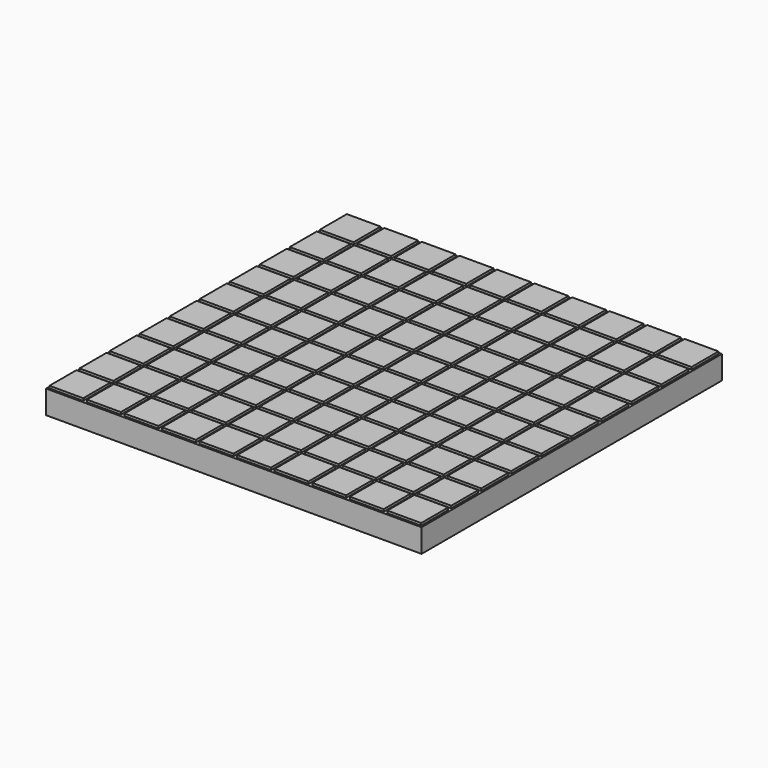
from build123d import *

# Parameters (mm, degrees)
F0_W     = 4000
F0_H     = 4000
F1_DEPTH = 250
F2_W     = 360
F2_H     = 360
F3_DEPTH = 25


with BuildPart() as f1:
    # F0 (on Top) → F1 (new body)
    with BuildSketch(Plane.XY):
        Rectangle(F0_W, F0_H)
    extrude(amount=F1_DEPTH)

    # F2 (on face) → F3 (join)
    with BuildSketch(Plane.XY.offset(250)):
        with Locations((-1800, 1800)):
            Rectangle(F2_W, F2_H)
        with Locations((-1400, 1800)):
            Rectangle(F2_W, F2_H)
        with Locations((-1000, 1800)):
            Rectangle(F2_W, F2_H)
        with Locations((-600, 1800)):
            Rectangle(F2_W, F2_H)
        with Locations((-200, 1800)):
            Rectangle(F2_W, F2_H)
        with Locations((200, 1800)):
            Rectangle(F2_W, F2_H)
        with Locations((600, 1800)):
            Rectangle(F2_W, F2_H)
        with Locations((1000, 1800)):
            Rectangle(F2_W, F2_H)
        with Locations((1400, 1800)):
            Rectangle(F2_W, F2_H)
        with Locations((1800, 1800)):
            Rectangle(F2_W, F2_H)
        with Locations((1800, 1400)):
            Rectangle(F2_W, F2_H)
        with Locations((1000, 1400)):
            Rectangle(F2_W, F2_H)
        with Locations((600, 1400)):
            Rectangle(F2_W, F2_H)
        with Locations((200, 1400)):
            Rectangle(F2_W, F2_H)
        with Locations((-200, 1400)):
            Rectangle(F2_W, F2_H)
        with Locations((-600, 1400)):
            Rectangle(F2_W, F2_H)
        with Locations((-1000, 1400)):
            Rectangle(F2_W, F2_H)
        with Locations((-1400, 1400)):
            Rectangle(F2_W, F2_H)
        with Locations((-1800, 1400)):
            Rectangle(F2_W, F2_H)
        with Locations((-1800, 1000)):
            Rectangle(F2_W, F2_H)
        with Locations((-1400, 1000)):
            Rectangle(F2_W, F2_H)
        with Locations((-1000, 1000)):
            Rectangle(F2_W, F2_H)
        with Locations((-1400, 1400)):
            Rectangle(F2_W, F2_H)
        with Locations((-600, 1000)):
            Rectangle(F2_W, F2_H)
        with Locations((-200, 1000)):
            Rectangle(F2_W, F2_H)
        with Locations((200, 1000)):
            Rectangle(F2_W, F2_H)
        with Locations((600, 1000)):
            Rectangle(F2_W, F2_H)
        with Locations((1000, 1000)):
            Rectangle(F2_W, F2_H)
        with Locations((1400, 1400)):
            Rectangle(F2_W, F2_H)
        with Locations((1400, 1000)):
            Rectangle(F2_W, F2_H)
        with Locations((1800, 1000)):
            Rectangle(F2_W, F2_H)
        with Locations((1800, 600)):
            Rectangle(F2_W, F2_H)
        with Locations((1400, 600)):
            Rectangle(F2_W, F2_H)
        with Locations((1000, 600)):
            Rectangle(F2_W, F2_H)
        with Locations((600, 600)):
            Rectangle(F2_W, F2_H)
        with Locations((200, 600)):
            Rectangle(F2_W, F2_H)
        with Locations((-200, 600)):
            Rectangle(F2_W, F2_H)
        with Locations((-600, 600)):
            Rectangle(F2_W, F2_H)
        with Locations((-1000, 600)):
            Rectangle(F2_W, F2_H)
        with Locations((-1400, 600)):
            Rectangle(F2_W, F2_H)
        with Locations((-1800, 600)):
            Rectangle(F2_W, F2_H)
        with Locations((-1800, 200)):
            Rectangle(F2_W, F2_H)
        with Locations((-1400, 200)):
            Rectangle(F2_W, F2_H)
        with Locations((-1000, 200)):
            Rectangle(F2_W, F2_H)
        with Locations((-600, 200)):
            Rectangle(F2_W, F2_H)
        with Locations((-200, 200)):
            Rectangle(F2_W, F2_H)
        with Locations((200, 200)):
            Rectangle(F2_W, F2_H)
        with Locations((600, 200)):
            Rectangle(F2_W, F2_H)
        with Locations((1000, 200)):
            Rectangle(F2_W, F2_H)
        with Locations((1400, 200)):
            Rectangle(F2_W, F2_H)
        with Locations((1800, 200)):
            Rectangle(F2_W, F2_H)
        with Locations((-200, 600)):
            Rectangle(F2_W, F2_H)
        with Locations((-1800, -200)):
            Rectangle(F2_W, F2_H)
        with Locations((-1800, 200)):
            Rectangle(F2_W, F2_H)
        with Locations((-1400, -200)):
            Rectangle(F2_W, F2_H)
        with Locations((-1000, -200)):
            Rectangle(F2_W, F2_H)
        with Locations((-600, -200)):
            Rectangle(F2_W, F2_H)
        with Locations((-200, -200)):
            Rectangle(F2_W, F2_H)
        with Locations((200, -200)):
            Rectangle(F2_W, F2_H)
        with Locations((600, -200)):
            Rectangle(F2_W, F2_H)
        with Locations((1000, -200)):
            Rectangle(F2_W, F2_H)
        with Locations((1400, -200)):
            Rectangle(F2_W, F2_H)
        with Locations((1800, -200)):
            Rectangle(F2_W, F2_H)
        with Locations((1800, -600)):
            Rectangle(F2_W, F2_H)
        with Locations((1400, -600)):
            Rectangle(F2_W, F2_H)
        with Locations((1000, -600)):
            Rectangle(F2_W, F2_H)
        with Locations((600, -600)):
            Rectangle(F2_W, F2_H)
        with Locations((200, -600)):
            Rectangle(F2_W, F2_H)
        with Locations((-1800, -600)):
            Rectangle(F2_W, F2_H)
        with Locations((-1400, -600)):
            Rectangle(F2_W, F2_H)
        with Locations((-1000, -600)):
            Rectangle(F2_W, F2_H)
        with Locations((-600, -600)):
            Rectangle(F2_W, F2_H)
        with Locations((-200, -600)):
            Rectangle(F2_W, F2_H)
        with Locations((-1800, -1000)):
            Rectangle(F2_W, F2_H)
        with Locations((-1400, -1000)):
            Rectangle(F2_W, F2_H)
        with Locations((-1000, -1000)):
            Rectangle(F2_W, F2_H)
        with Locations((-600, -1000)):
            Rectangle(F2_W, F2_H)
        with Locations((-200, -1000)):
            Rectangle(F2_W, F2_H)
        with Locations((200, -1000)):
            Rectangle(F2_W, F2_H)
        with Locations((600, -1000)):
            Rectangle(F2_W, F2_H)
        with Locations((1000, -1000)):
            Rectangle(F2_W, F2_H)
        with Locations((1400, -1000)):
            Rectangle(F2_W, F2_H)
        with Locations((1800, -1000)):
            Rectangle(F2_W, F2_H)
        with Locations((1800, -1400)):
            Rectangle(F2_W, F2_H)
        with Locations((1400, -1400)):
            Rectangle(F2_W, F2_H)
        with Locations((1000, -1400)):
            Rectangle(F2_W, F2_H)
        with Locations((600, -1400)):
            Rectangle(F2_W, F2_H)
        with Locations((200, -1400)):
            Rectangle(F2_W, F2_H)
        with Locations((-200, -1400)):
            Rectangle(F2_W, F2_H)
        with Locations((-600, -1400)):
            Rectangle(F2_W, F2_H)
        with Locations((-1000, -1400)):
            Rectangle(F2_W, F2_H)
        with Locations((1800, -1800)):
            Rectangle(F2_W, F2_H)
        with Locations((1400, -1800)):
            Rectangle(F2_W, F2_H)
        with Locations((1000, -1800)):
            Rectangle(F2_W, F2_H)
        with Locations((600, -1800)):
            Rectangle(F2_W, F2_H)
        with Locations((200, -1800)):
            Rectangle(F2_W, F2_H)
        with Locations((-1800, -1400)):
            Rectangle(F2_W, F2_H)
        with Locations((-1400, -1400)):
            Rectangle(F2_W, F2_H)
        with Locations((-1800, -1800)):
            Rectangle(F2_W, F2_H)
        with Locations((-1400, -1800)):
            Rectangle(F2_W, F2_H)
        with Locations((-1000, -1800)):
            Rectangle(F2_W, F2_H)
        with Locations((-600, -1800)):
            Rectangle(F2_W, F2_H)
        with Locations((-200, -1800)):
            Rectangle(F2_W, F2_H)
    extrude(amount=F3_DEPTH)


solid = f1.part
